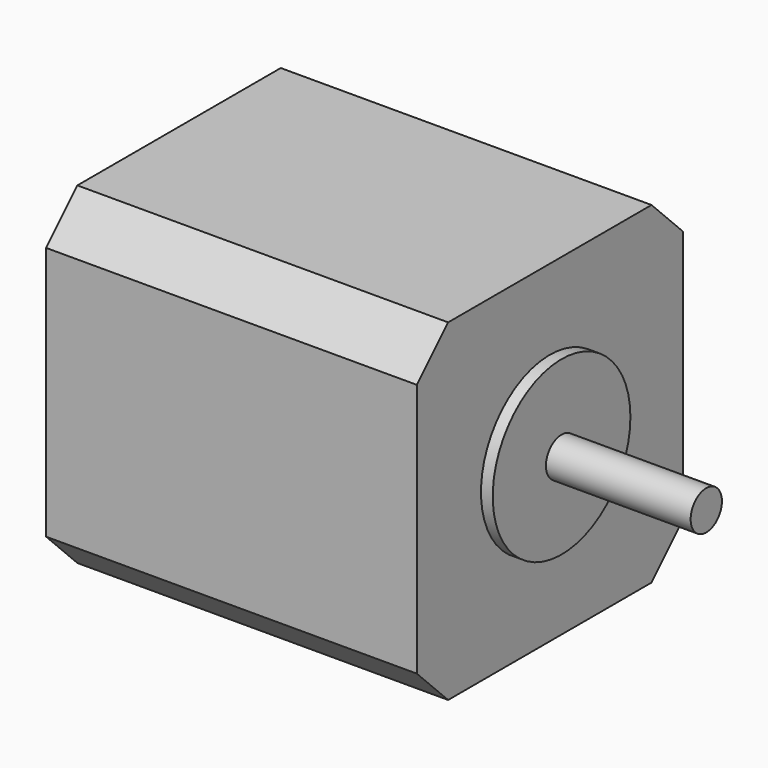
from build123d import *

# Parameters (mm, degrees)
SKETCH060_W             = 42.5
SKETCH060_H             = 42.5
PAD025_DEPTH            = 47.4
CHAMFER019_SIZE         = 5
CHAMFER017_SIZE         = 5
CHAMFER016_SIZE         = 5
CHAMFER018_SIZE         = 5
SKETCH061_R             = 11
PAD022_DEPTH            = 1.5
SKETCH059_R             = 2.5
PAD024_DEPTH            = 18.5
BODY014_PLACEMENT_ANGLE = 90


with BuildPart() as part:
    # Sketch060 → Pad025 (new body)
    with BuildSketch(Plane.XZ):
        Rectangle(SKETCH060_W, SKETCH060_H)
    extrude(amount=-PAD025_DEPTH)

    # Chamfer019
    chamfer019_edges = [part.edges().sort_by_distance(p)[0] for p in [
        (21.25, 23.7, 21.25),
    ]]
    chamfer(chamfer019_edges, length=CHAMFER019_SIZE)

    # Chamfer017
    chamfer017_edges = [part.edges().sort_by_distance(p)[0] for p in [
        (-21.25, 23.7, 21.25),
    ]]
    chamfer(chamfer017_edges, length=CHAMFER017_SIZE)

    # Chamfer016
    chamfer016_edges = [part.edges().sort_by_distance(p)[0] for p in [
        (21.25, 23.7, -21.25),
    ]]
    chamfer(chamfer016_edges, length=CHAMFER016_SIZE)

    # Chamfer018
    chamfer018_edges = [part.edges().sort_by_distance(p)[0] for p in [
        (-21.25, 23.7, -21.25),
    ]]
    chamfer(chamfer018_edges, length=CHAMFER018_SIZE)

    # Sketch061 (on Face1 of Chamfer018) → Pad022 (join)
    with BuildSketch(Plane.XZ):
        Circle(SKETCH061_R)
    extrude(amount=PAD022_DEPTH)

    # Sketch059 (on Face12 of Pad022) → Pad024 (join)
    with BuildSketch(Plane.XZ.offset(1.5)):
        Circle(SKETCH059_R)
    extrude(amount=PAD024_DEPTH)


with BuildPart() as part_1:
    # Body014 placement: moved
    add(part.part.moved(Location((-2.25, 0, 150))).rotate(Axis((-2.25, 0, 150), (0, 0, 1)), BODY014_PLACEMENT_ANGLE))


solid = part_1.part
